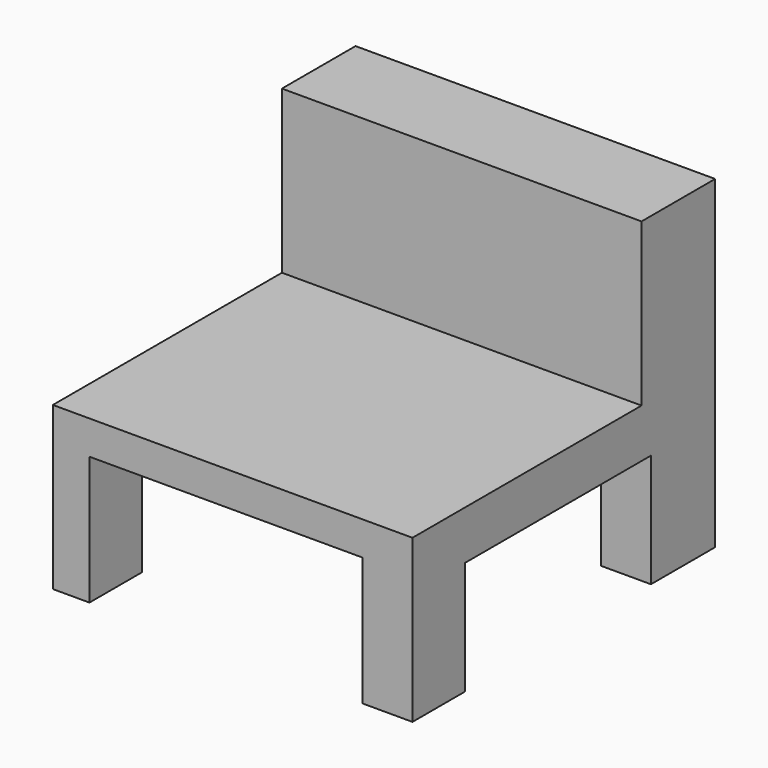
from build123d import *

# Parameters (mm, degrees)
F0_W     = 112.6851290464
F0_H     = 118.5585707426
F1_DEPTH = 101.6
F2_W     = 112.6851290464
F2_H     = 89.7236950696
F3_DEPTH = 50.8
F4_W     = 85.5996385217
F4_H     = 40.2484461665
F5_DEPTH = 127
F6_W     = 72.8077031672
F6_H     = 35.5043448508
F7_DEPTH = 127


with BuildPart() as f1:
    # F0 (on Top) → F1 (new body)
    with BuildSketch(Plane.XY):
        with Locations((-3.3229105175, 13.3671686053)):
            Rectangle(F0_W, F0_H)
    extrude(amount=F1_DEPTH)

    # F2 (on face) → F3 (cut)
    with BuildSketch(Plane.XY.offset(101.6)):
        with Locations((-3.3229105175, -1.0502692312)):
            Rectangle(F2_W, F2_H)
    extrude(amount=-F3_DEPTH, mode=Mode.SUBTRACT)

    # F4 (on face) → F5 (cut)
    with BuildSketch(Plane.XZ.offset(45.912116766)):
        with Locations((-5.4014250636, 20.1242230833)):
            Rectangle(F4_W, F4_H)
    extrude(amount=-F5_DEPTH, mode=Mode.SUBTRACT)

    # F6 (on face) → F7 (cut)
    with BuildSketch(Plane.YZ.offset(53.0196540058)):
        with Locations((11.0908616334, 17.7521724254)):
            Rectangle(F6_W, F6_H)
    extrude(amount=-F7_DEPTH, mode=Mode.SUBTRACT)


solid = f1.part
